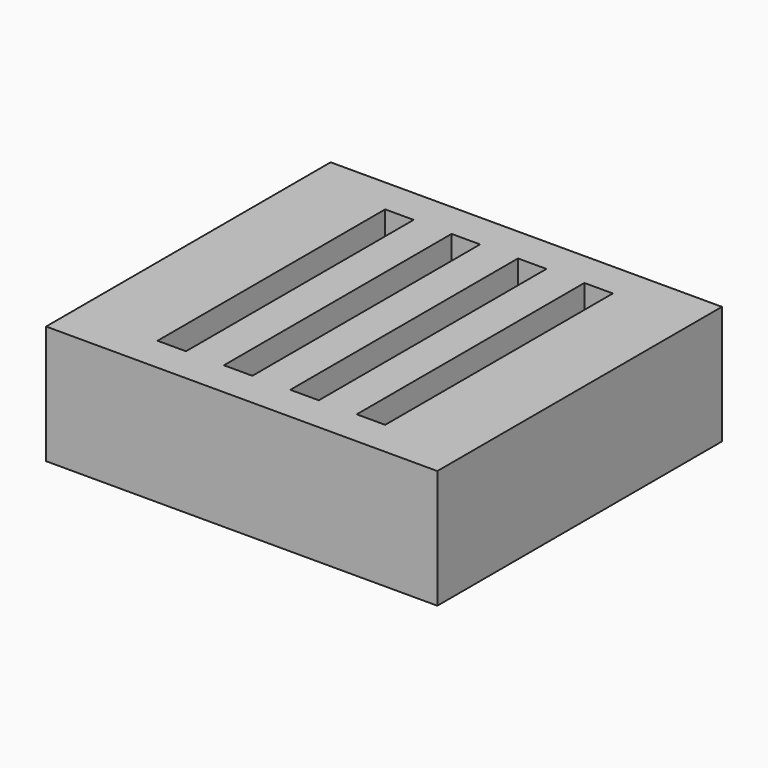
from build123d import *

# Parameters (mm, degrees)
BOX001_W     = 2.4
BOX001_H     = 24
BOX001_DEPTH = 22
BOX002_W     = 2.4
BOX002_H     = 24
BOX002_DEPTH = 22
BOX003_W     = 2.4
BOX003_H     = 24
BOX003_DEPTH = 22
BOX_W        = 2.4
BOX_H        = 24
BOX_DEPTH    = 22
BOX004_W     = 33
BOX004_H     = 30
BOX004_DEPTH = 10


with BuildPart() as cube001:
    # Box001 → Box001 (new body)
    with BuildSketch(Plane(origin=(8.1, 3, 0), x_dir=(1, 0, 0), z_dir=(0, 0, 1))):
        with Locations((1.2, 12)):
            Rectangle(BOX001_W, BOX001_H)
    extrude(amount=BOX001_DEPTH)


with BuildPart() as cube002:
    # Box002 → Box002 (new body)
    with BuildSketch(Plane(origin=(13.7, 3, 0), x_dir=(1, 0, 0), z_dir=(0, 0, 1))):
        with Locations((1.2, 12)):
            Rectangle(BOX002_W, BOX002_H)
    extrude(amount=BOX002_DEPTH)


with BuildPart() as cube003:
    # Box003 → Box003 (new body)
    with BuildSketch(Plane(origin=(19.3, 3, 0), x_dir=(1, 0, 0), z_dir=(0, 0, 1))):
        with Locations((1.2, 12)):
            Rectangle(BOX003_W, BOX003_H)
    extrude(amount=BOX003_DEPTH)


with BuildPart() as fusion:
    # Box → Box (new body)
    with BuildSketch(Plane(origin=(2.5, 3, 0), x_dir=(1, 0, 0), z_dir=(0, 0, 1))):
        with Locations((1.2, 12)):
            Rectangle(BOX_W, BOX_H)
    extrude(amount=BOX_DEPTH)

    # Fusion: union Cube001, Cube002, Cube003
    add(cube001.part)
    add(cube002.part)
    add(cube003.part)


with BuildPart() as fusion_1:
    # Fusion placement: moved
    add(fusion.part.moved(Location((0, 0, 3))))


with BuildPart() as cut:
    # Box004 → Box004 (new body)
    with BuildSketch(Plane(origin=(-4.5, 0, 0), x_dir=(1, 0, 0), z_dir=(0, 0, 1))):
        with Locations((16.5, 15)):
            Rectangle(BOX004_W, BOX004_H)
    extrude(amount=BOX004_DEPTH)

    # Cut: cut Fusion
    add(fusion_1.part, mode=Mode.SUBTRACT)


solid = cut.part
